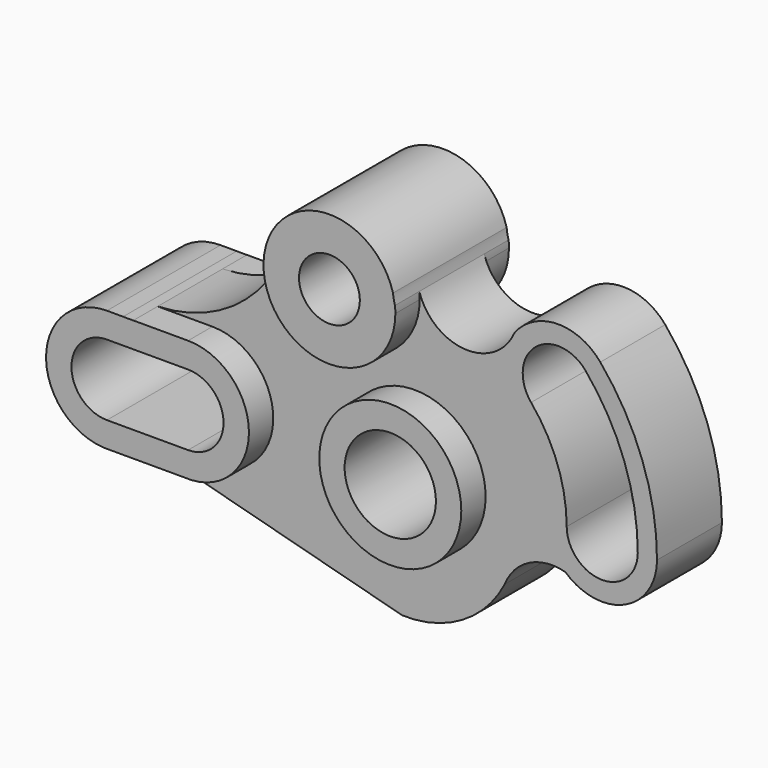
from build123d import *

# Parameters (mm, degrees)
F0_R     = 22.225
F1_DEPTH = 12.7
F0_R_2   = 9.525
F0_R_3   = 14.2875
F2_DEPTH = 22.225


with BuildPart() as f1:
    # F0 (on Front) → F1 (new body, symmetric)
    with BuildSketch(Plane.XZ):
        with BuildLine():
            Line((-35.76122, -1.70331), (-61.16122, -1.70331))
            Line((-61.16122, -1.70331), (22.611454, -23.883373))
            ThreePointArc((22.611454, -23.883373), (41.377511, -19.011414), (54.653603, -4.881791))
            ThreePointArc((54.653603, -4.881791), (62.325841, 3.542555), (73.665641, 4.656909))
            ThreePointArc((73.665641, 4.656909), (92.100975, 1.676194), (102.323325, 17.304685))
            ThreePointArc((102.323325, 17.304685), (97.751671, 43.254331), (84.58042, 66.075425))
            ThreePointArc((84.58042, 66.075425), (70.994806, 72.238394), (57.723636, 65.424647))
            ThreePointArc((57.723636, 65.424647), (42.224433, 55.833223), (27.924188, 67.134716))
            ThreePointArc((27.924188, 67.134716), (28.011866, 66.039385), (28.041119, 64.940939))
            ThreePointArc((28.041119, 64.940939), (5.862071, 44.361094), (-13.003585, 68.015422))
            ThreePointArc((-13.003585, 68.015422), (-28.409448, 45.607643), (-53.983655, 36.365939))
            Line((-53.983655, 36.365939), (-36.843181, 36.365939))
            ThreePointArc((-36.843181, 36.365939), (-17.80087, 17.857139), (-35.76122, -1.70331))
        make_face()
        with Locations((26.453619, 17.315939)):
            Circle(F0_R, mode=Mode.SUBTRACT)
        with BuildLine():
            ThreePointArc((96.303526, 17.315939), (85.178419, 6.236313), (74.053312, 17.315939))
            ThreePointArc((74.053312, 17.315939), (71.1827, 33.595993), (62.9171, 47.912432))
            ThreePointArc((62.9171, 47.912432), (64.258991, 63.620822), (79.961752, 62.214594))
            ThreePointArc((79.961752, 62.214594), (92.091061, 41.206014), (96.303526, 17.315939))
        make_face(mode=Mode.SUBTRACT)
    extrude(amount=F1_DEPTH, both=True)

    # F0 (on Front) → F2 (join, symmetric)
    with BuildSketch(Plane.XZ):
        with BuildLine():
            ThreePointArc((27.312843, 70.375018), (6.197833, 85.543184), (-13.003585, 68.015422))
            ThreePointArc((-13.003585, 68.015422), (5.862071, 44.361094), (28.041119, 64.940939))
            ThreePointArc((28.041119, 64.940939), (28.011866, 66.039385), (27.924188, 67.134716))
            ThreePointArc((27.924188, 67.134716), (27.534155, 68.738951), (27.312843, 70.375018))
        make_face()
        with Locations((7.403619, 64.940939)):
            Circle(F0_R_2, mode=Mode.SUBTRACT)
        with BuildLine():
            ThreePointArc((-62.243181, 36.365939), (-81.285492, 16.77474), (-61.16122, -1.70331))
            Line((-61.16122, -1.70331), (-35.76122, -1.70331))
            ThreePointArc((-35.76122, -1.70331), (-17.80087, 17.857139), (-36.843181, 36.365939))
            Line((-36.843181, 36.365939), (-53.983655, 36.365939))
            ThreePointArc((-53.983655, 36.365939), (-55.579185, 36.337294), (-57.174716, 36.365939))
            Line((-57.174716, 36.365939), (-62.243181, 36.365939))
        make_face()
        with BuildLine():
            Line((-36.843181, 6.216139), (-62.243181, 6.216139))
            ThreePointArc((-62.243181, 6.216139), (-73.342981, 17.315939), (-62.243181, 28.415739))
            Line((-62.243181, 28.415739), (-36.843181, 28.415739))
            ThreePointArc((-36.843181, 28.415739), (-25.743381, 17.315939), (-36.843181, 6.216139))
        make_face(mode=Mode.SUBTRACT)
        with Locations((26.453619, 17.315939)):
            Circle(F0_R)
        with Locations((26.453619, 17.315939)):
            Circle(F0_R_3, mode=Mode.SUBTRACT)
    extrude(amount=F2_DEPTH, both=True)


solid = f1.part
